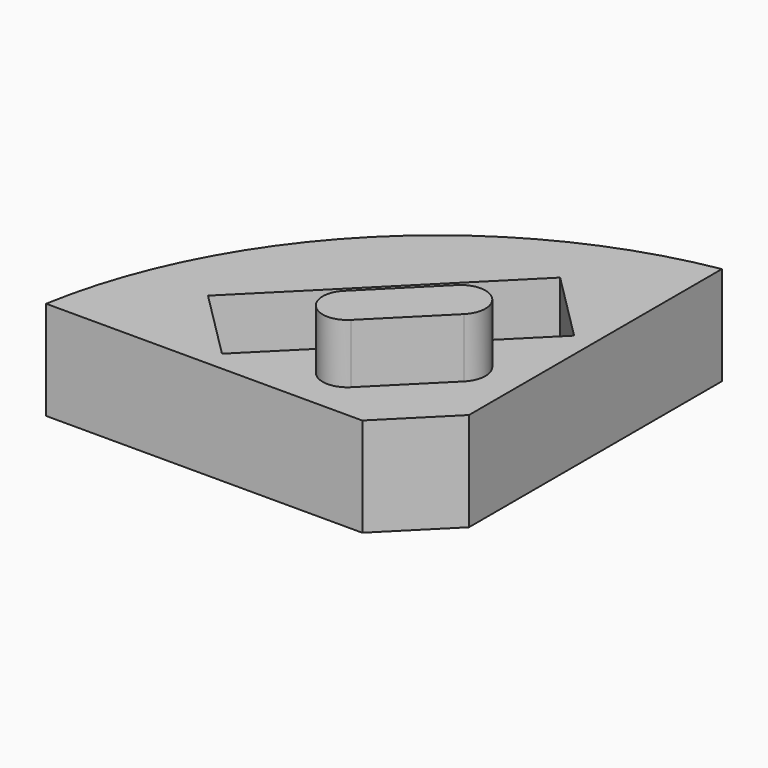
from build123d import *

# Parameters (mm, degrees)
F1_DEPTH = 5
F3_DEPTH = 4.5
F5_DEPTH = 3


with BuildPart() as f1:
    # F0 (on Top) → F1 (new body)
    with BuildSketch(Plane.XY):
        with BuildLine():
            Line((-3, 0), (0, 3))
            Line((0, 3), (0, 19))
            ThreePointArc((0, 19), (-12.510187, 12.510187), (-19, 0))
            Line((-19, 0), (-3, 0))
        make_face()
    extrude(amount=F1_DEPTH)

    # F2 (on face) → F3 (cut)
    with BuildSketch(Plane.XY.offset(5)):
        Polygon((-10.899495, 1), (-1, 10.899495), (-4.535534, 14.435029), (-14.435029, 4.535534), align=None)
    extrude(amount=-F3_DEPTH, mode=Mode.SUBTRACT)

    # F4 (on face) → F5 (join)
    with BuildSketch(Plane.XY.offset(5)):
        with BuildLine():
            Line((-3.713925, 6.892677), (-6.895905, 3.710697))
            ThreePointArc((-6.895905, 3.710697), (-6.895098, 1.942122), (-5.126524, 1.944544))
            Line((-5.126524, 1.944544), (-1.944544, 5.126524))
            ThreePointArc((-1.944544, 5.126524), (-1.945351, 6.895099), (-3.713925, 6.892677))
        make_face()
    extrude(amount=F5_DEPTH)


solid = f1.part
